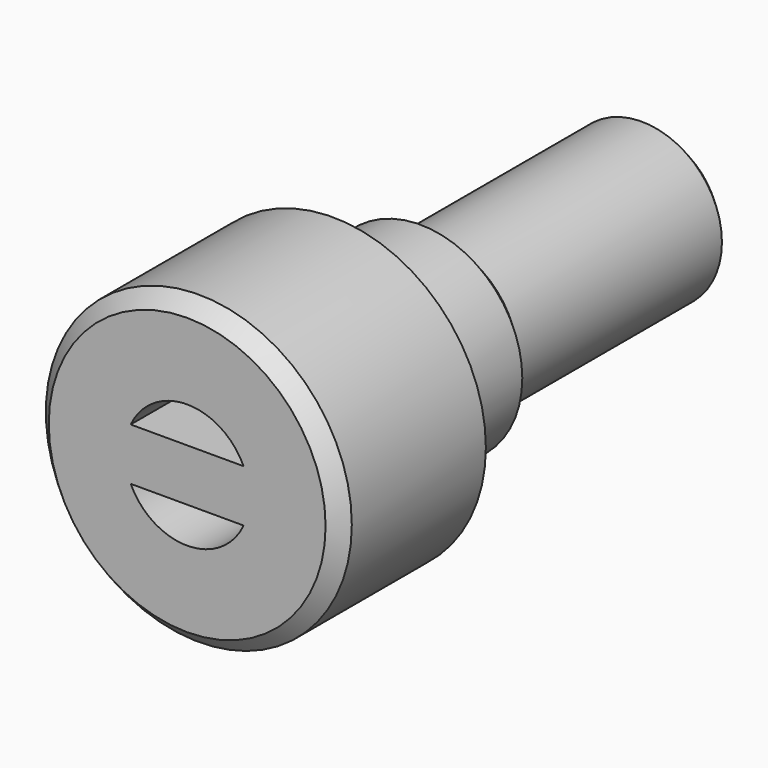
from build123d import *

# Parameters (mm, degrees)
F2_SIZE2 = 2
F2_SIZE  = 2
F4_DEPTH = 100


with BuildPart() as f1:
    # F0 (on Top) → F1 (revolve)
    with BuildSketch(Plane.XY):
        Polygon((0, 80), (0, 0), (21, 0), (21, 25), (14, 25), (14, 40), (9, 40), (9, 43), (11, 43), (11, 80), align=None)
    revolve(axis=Axis((0, 40, 0), (0, -1, 0)))

    # F2
    f2_edges = [f1.edges().sort_by_distance(p)[0] for p in [
        (-11, 80, 0),
        (-21, 0, 0),
    ]]
    chamfer(f2_edges, length=F2_SIZE, length2=F2_SIZE2)

    # F3 (on Front) → F4 (cut)
    with BuildSketch(Plane.XZ):
        with BuildLine():
            Line((-7.75, 3.584375), (7.75, 3.584375))
            ThreePointArc((7.75, 3.584375), (0, 8.53875), (-7.75, 3.584375))
        make_face()
        with BuildLine():
            ThreePointArc((-7.75, -3.584375), (0, -8.53875), (7.75, -3.584375))
            Line((7.75, -3.584375), (-7.75, -3.584375))
        make_face()
    extrude(amount=-F4_DEPTH, mode=Mode.SUBTRACT)


solid = f1.part
